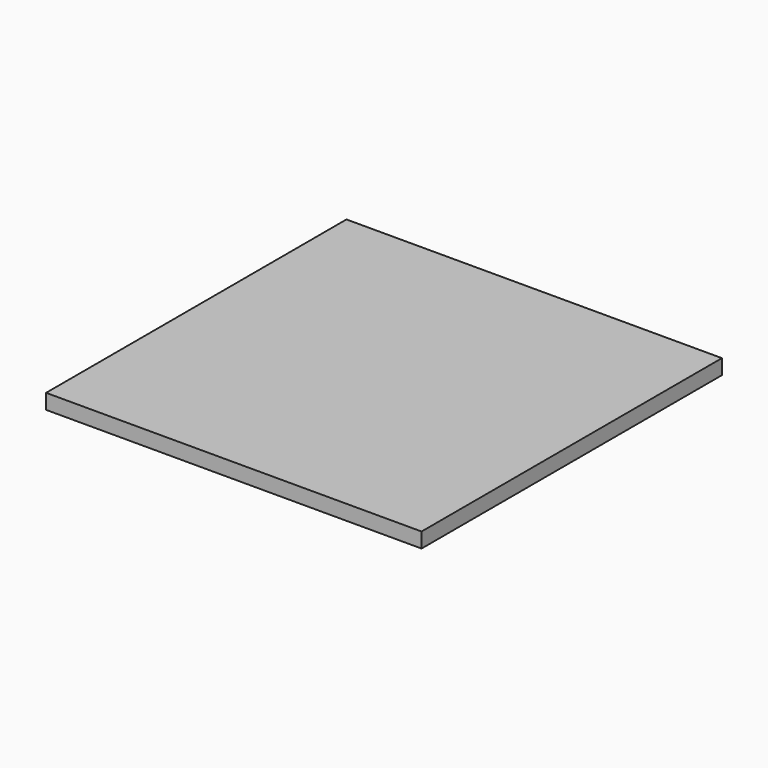
from build123d import *

# Parameters (mm, degrees)
F1_W     = 500
F1_H     = 500
F2_DEPTH = 20


with BuildPart() as f2:
    # F1 (on face) → F2 (new body)
    with BuildSketch(Plane.XY):
        Rectangle(F1_W, F1_H)
    extrude(amount=F2_DEPTH)


solid = f2.part
